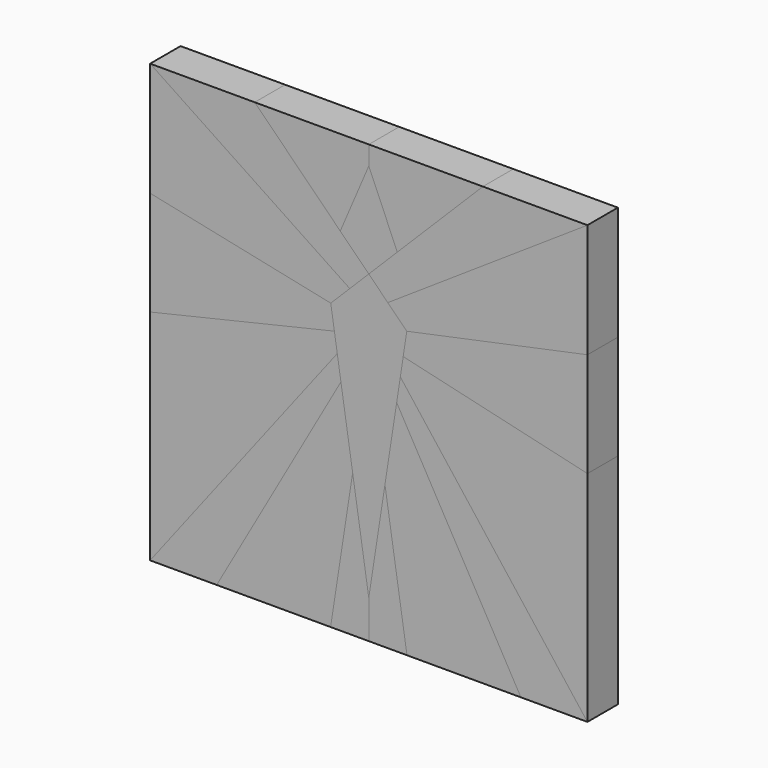
from build123d import *

# Parameters (mm, degrees)
F1_DEPTH = 25.4
F2_DEPTH = 25.4
F3_DEPTH = 25.4


with BuildPart() as f1:
    # F0 (on Front) → F1 (new body)
    with BuildSketch(Plane.XZ):
        Polygon((-12.7, 57.15), (-146.05, 146.05), (-146.05, 69.85), (-25.4, 44.45), align=None)
        Polygon((0, 146.05), (-76.2, 146.05), (-19.05, 88.9), (0, 133.35), align=None)
        Polygon((19.05, 88.9), (0, 69.85), (12.7, 57.15), (146.05, 146.05), (76.2, 146.05), align=None)
        Polygon((146.05, 69.85), (25.4, 44.45), (22.986092, 28.759599), (146.05, 0), align=None)
        Polygon((146.05, -146.05), (21.054966, 16.207279), (18.612658, 0.332279), (101.6, -146.05), align=None)
        Polygon((0, -120.65), (0, -146.05), (25.50224, -146.05), (10.797274, -50.467721), align=None)
        Polygon((-18.612658, 0.332279), (-101.6, -146.05), (-25.50224, -146.05), (-10.797274, -50.467721), align=None)
        Polygon((-22.986092, 28.759599), (-146.05, 0), (-146.05, -146.05), (-21.054966, 16.207279), align=None)
    extrude(amount=F1_DEPTH)


with BuildPart() as f2:
    # F0 (on Front) → F2 (new body)
    with BuildSketch(Plane.XZ):
        Polygon((-25.4, 44.45), (-146.05, 69.85), (-146.05, 0), (-22.986092, 28.759599), align=None)
        Polygon((-76.2, 146.05), (-146.05, 146.05), (-12.7, 57.15), (0, 69.85), (-19.05, 88.9), align=None)
        Polygon((76.2, 146.05), (0, 146.05), (0, 133.35), (19.05, 88.9), align=None)
        Polygon((146.05, 146.05), (12.7, 57.15), (25.4, 44.45), (146.05, 69.85), align=None)
        Polygon((146.05, 0), (22.986092, 28.759599), (21.054966, 16.207279), (146.05, -146.05), align=None)
        Polygon((10.797274, -50.467721), (25.50224, -146.05), (101.6, -146.05), (18.612658, 0.332279), align=None)
        Polygon((-10.797274, -50.467721), (-25.50224, -146.05), (0, -146.05), (0, -120.65), align=None)
        Polygon((-21.054966, 16.207279), (-146.05, -146.05), (-101.6, -146.05), (-18.612658, 0.332279), align=None)
    extrude(amount=F2_DEPTH)


with BuildPart() as f3:
    # F0 (on Front) → F3 (new body)
    with BuildSketch(Plane.XZ):
        Polygon((0, 133.35), (-19.05, 88.9), (0, 69.85), (19.05, 88.9), align=None)
        Polygon((0, 69.85), (-12.7, 57.15), (-25.4, 44.45), (-22.986092, 28.759599), (-21.054966, 16.207279), (-18.612658, 0.332279), (-10.797274, -50.467721), (0, -120.65), (10.797274, -50.467721), (18.612658, 0.332279), (21.054966, 16.207279), (22.986092, 28.759599), (25.4, 44.45), (12.7, 57.15), align=None)
    extrude(amount=F3_DEPTH)


solid = Compound([f1.part, f2.part, f3.part])
